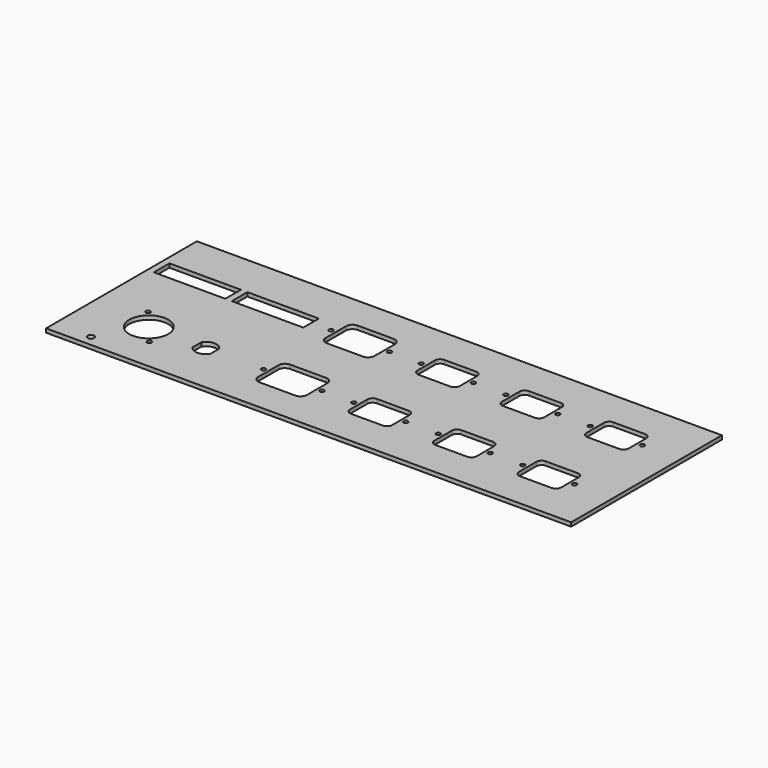
from build123d import *

# Parameters (mm, degrees)
F0_W     = 404
F0_H     = 145
F2_DEPTH = 3
F3_D     = 3.3
F3_DEPTH = 8.6
F3_TIP   = 0.9914200214
F1_R     = 1.5
F1_R_2   = 15
F1_R_3   = 1.75
F1_R_4   = 2.5
F1_W     = 55
F1_H     = 15
F4_DEPTH = 25


with BuildPart() as f2:
    # F0 (on Top) → F2 (new body)
    with BuildSketch(Plane.XY):
        with Locations((-14.1859020234, -7.6260944492)):
            Rectangle(F0_W, F0_H)
    extrude(amount=-F2_DEPTH)

    # F3
    with Locations(Plane.XY):
        with Locations((118.573140085, 24.8739055508), (158.573140085, 24.8739055508), (93.573140085, 24.8739055508), (53.573140085, 24.8739055508), (53.573140085, -40.1260944492), (93.573140085, -40.1260944492), (118.573140085, -40.1260944492), (158.573140085, -40.1260944492), (28.573140085, -40.1260944492), (-11.426859915, -40.1260944492), (-11.426859915, 24.8739055508), (28.573140085, 24.8739055508), (-35.926859915, 24.8739055508), (-80.926859915, 24.8739055508), (-80.926859915, -40.1260944492), (-35.926859915, -40.1260944492)):
            Hole(F3_D / 2, depth=F3_DEPTH)
            with Locations((0, 0, -(F3_DEPTH + F3_TIP / 2))):  # 118° drill point
                Cone(0, F3_D / 2, F3_TIP, mode=Mode.SUBTRACT)

    # F1 (on Top) → F4 (cut)
    with BuildSketch(Plane.XY):
        with BuildLine():
            Line((126.323140085, 12.4739055508), (150.823140085, 12.4739055508))
            ThreePointArc((150.823140085, 12.4739055508), (153.6515672098, 13.645478426), (154.823140085, 16.4739055508))
            Line((154.823140085, 16.4739055508), (154.823140085, 33.2739055508))
            ThreePointArc((154.823140085, 33.2739055508), (153.6515672098, 36.1023326755), (150.823140085, 37.2739055508))
            Line((150.823140085, 37.2739055508), (126.323140085, 37.2739055508))
            ThreePointArc((126.323140085, 37.2739055508), (123.4947129603, 36.1023326755), (122.323140085, 33.2739055508))
            Line((122.323140085, 33.2739055508), (122.323140085, 16.4739055508))
            ThreePointArc((122.323140085, 16.4739055508), (123.4947129603, 13.645478426), (126.323140085, 12.4739055508))
        make_face()
        with Locations((158.573140085, 24.8739055508)):
            Circle(F1_R)
        with Locations((118.573140085, 24.8739055508)):
            Circle(F1_R)
        with BuildLine():
            Line((-72.226859915, 10.1239055508), (-44.626859915, 10.1239055508))
            ThreePointArc((-44.626859915, 10.1239055508), (-41.091326009, 11.5883716448), (-39.626859915, 15.1239055508))
            Line((-39.626859915, 15.1239055508), (-39.626859915, 34.6239055508))
            ThreePointArc((-39.626859915, 34.6239055508), (-41.091326009, 38.1594394567), (-44.626859915, 39.6239055508))
            Line((-44.626859915, 39.6239055508), (-72.226859915, 39.6239055508))
            ThreePointArc((-72.226859915, 39.6239055508), (-75.7623938209, 38.1594394567), (-77.226859915, 34.6239055508))
            Line((-77.226859915, 34.6239055508), (-77.226859915, 15.1239055508))
            ThreePointArc((-77.226859915, 15.1239055508), (-75.7623938209, 11.5883716448), (-72.226859915, 10.1239055508))
        make_face()
        with Locations((-35.926859915, 24.8739055508)):
            Circle(F1_R)
        with Locations((-80.926859915, 24.8739055508)):
            Circle(F1_R)
        with BuildLine():
            Line((122.323140085, -31.7260944492), (122.323140085, -48.5260944492))
            ThreePointArc((122.323140085, -48.5260944492), (123.4947129603, -51.354521574), (126.323140085, -52.5260944492))
            Line((126.323140085, -52.5260944492), (150.823140085, -52.5260944492))
            ThreePointArc((150.823140085, -52.5260944492), (153.6515672098, -51.354521574), (154.823140085, -48.5260944492))
            Line((154.823140085, -48.5260944492), (154.823140085, -31.7260944492))
            ThreePointArc((154.823140085, -31.7260944492), (153.6515672098, -28.8976673245), (150.823140085, -27.7260944492))
            Line((150.823140085, -27.7260944492), (126.323140085, -27.7260944492))
            ThreePointArc((126.323140085, -27.7260944492), (123.4947129603, -28.8976673245), (122.323140085, -31.7260944492))
        make_face()
        with Locations((158.573140085, -40.1260944492)):
            Circle(F1_R)
        with Locations((118.573140085, -40.1260944492)):
            Circle(F1_R)
        with BuildLine():
            Line((57.323140085, 33.2739055508), (57.323140085, 16.4739055508))
            ThreePointArc((57.323140085, 16.4739055508), (58.4947129603, 13.645478426), (61.323140085, 12.4739055508))
            Line((61.323140085, 12.4739055508), (85.823140085, 12.4739055508))
            ThreePointArc((85.823140085, 12.4739055508), (88.6515672098, 13.645478426), (89.823140085, 16.4739055508))
            Line((89.823140085, 16.4739055508), (89.823140085, 33.2739055508))
            ThreePointArc((89.823140085, 33.2739055508), (88.6515672098, 36.1023326755), (85.823140085, 37.2739055508))
            Line((85.823140085, 37.2739055508), (61.323140085, 37.2739055508))
            ThreePointArc((61.323140085, 37.2739055508), (58.4947129603, 36.1023326755), (57.323140085, 33.2739055508))
        make_face()
        with Locations((93.573140085, 24.8739055508)):
            Circle(F1_R)
        with Locations((53.573140085, 24.8739055508)):
            Circle(F1_R)
        with BuildLine():
            Line((57.323140085, -31.7260944492), (57.323140085, -48.5260944492))
            ThreePointArc((57.323140085, -48.5260944492), (58.4947129603, -51.354521574), (61.323140085, -52.5260944492))
            Line((61.323140085, -52.5260944492), (85.823140085, -52.5260944492))
            ThreePointArc((85.823140085, -52.5260944492), (88.6515672098, -51.354521574), (89.823140085, -48.5260944492))
            Line((89.823140085, -48.5260944492), (89.823140085, -31.7260944492))
            ThreePointArc((89.823140085, -31.7260944492), (88.6515672098, -28.8976673245), (85.823140085, -27.7260944492))
            Line((85.823140085, -27.7260944492), (61.323140085, -27.7260944492))
            ThreePointArc((61.323140085, -27.7260944492), (58.4947129603, -28.8976673245), (57.323140085, -31.7260944492))
        make_face()
        with Locations((93.573140085, -40.1260944492)):
            Circle(F1_R)
        with Locations((53.573140085, -40.1260944492)):
            Circle(F1_R)
        with BuildLine():
            Line((-7.676859915, 33.2739055508), (-7.676859915, 16.4739055508))
            ThreePointArc((-7.676859915, 16.4739055508), (-6.5052870397, 13.645478426), (-3.676859915, 12.4739055508))
            Line((-3.676859915, 12.4739055508), (20.823140085, 12.4739055508))
            ThreePointArc((20.823140085, 12.4739055508), (23.6515672098, 13.645478426), (24.823140085, 16.4739055508))
            Line((24.823140085, 16.4739055508), (24.823140085, 33.2739055508))
            ThreePointArc((24.823140085, 33.2739055508), (23.6515672098, 36.1023326755), (20.823140085, 37.2739055508))
            Line((20.823140085, 37.2739055508), (-3.676859915, 37.2739055508))
            ThreePointArc((-3.676859915, 37.2739055508), (-6.5052870397, 36.1023326755), (-7.676859915, 33.2739055508))
        make_face()
        with Locations((28.573140085, 24.8739055508)):
            Circle(F1_R)
        with Locations((-11.426859915, 24.8739055508)):
            Circle(F1_R)
        with BuildLine():
            Line((-7.676859915, -31.7260944492), (-7.676859915, -48.5260944492))
            ThreePointArc((-7.676859915, -48.5260944492), (-6.5052870397, -51.354521574), (-3.676859915, -52.5260944492))
            Line((-3.676859915, -52.5260944492), (20.823140085, -52.5260944492))
            ThreePointArc((20.823140085, -52.5260944492), (23.6515672098, -51.354521574), (24.823140085, -48.5260944492))
            Line((24.823140085, -48.5260944492), (24.823140085, -31.7260944492))
            ThreePointArc((24.823140085, -31.7260944492), (23.6515672098, -28.8976673245), (20.823140085, -27.7260944492))
            Line((20.823140085, -27.7260944492), (-3.676859915, -27.7260944492))
            ThreePointArc((-3.676859915, -27.7260944492), (-6.5052870397, -28.8976673245), (-7.676859915, -31.7260944492))
        make_face()
        with Locations((28.573140085, -40.1260944492)):
            Circle(F1_R)
        with Locations((-11.426859915, -40.1260944492)):
            Circle(F1_R)
        with BuildLine():
            Line((-77.226859915, -30.3760944492), (-77.226859915, -49.8760944492))
            ThreePointArc((-77.226859915, -49.8760944492), (-75.7623938209, -53.4116283552), (-72.226859915, -54.8760944492))
            Line((-72.226859915, -54.8760944492), (-44.626859915, -54.8760944492))
            ThreePointArc((-44.626859915, -54.8760944492), (-41.091326009, -53.4116283552), (-39.626859915, -49.8760944492))
            Line((-39.626859915, -49.8760944492), (-39.626859915, -30.3760944492))
            ThreePointArc((-39.626859915, -30.3760944492), (-41.091326009, -26.8405605433), (-44.626859915, -25.3760944492))
            Line((-44.626859915, -25.3760944492), (-72.226859915, -25.3760944492))
            ThreePointArc((-72.226859915, -25.3760944492), (-75.7623938209, -26.8405605433), (-77.226859915, -30.3760944492))
        make_face()
        with Locations((-35.926859915, -40.1260944492)):
            Circle(F1_R)
        with Locations((-80.926859915, -40.1260944492)):
            Circle(F1_R)
        with Locations((-169.1859020234, -40.1260944492)):
            Circle(F1_R_2)
        with Locations((-156.6859020234, -55.1260944492)):
            Circle(F1_R_3)
        with Locations((-181.6859020234, -25.1260944492)):
            Circle(F1_R_3)
        with Locations((-188.1859020234, -71.9773098826)):
            Circle(F1_R_4)
        with BuildLine():
            Line((-131.9859020234, -35.8176724643), (-131.9859020234, -44.4345164341))
            ThreePointArc((-131.9859020234, -44.4345164341), (-125.1859020234, -48.1760944492), (-118.3859020234, -44.4345164341))
            Line((-118.3859020234, -44.4345164341), (-118.3859020234, -35.8176724643))
            ThreePointArc((-118.3859020234, -35.8176724643), (-125.1859020234, -32.0760944492), (-131.9859020234, -35.8176724643))
        make_face()
        with Locations((-183.6481976509, 24.6848849975)):
            Rectangle(F1_W, F1_H)
        with Locations((-123.6481976509, 24.6848849975)):
            Rectangle(F1_W, F1_H)
    extrude(amount=-F4_DEPTH, mode=Mode.SUBTRACT)


solid = f2.part
